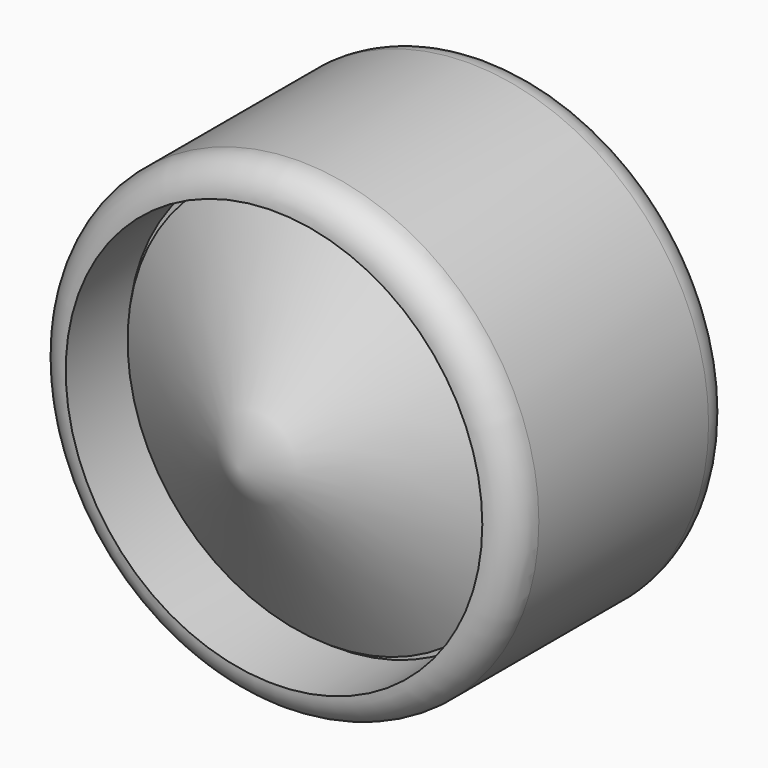
from build123d import *

# Parameters (mm, degrees)
F0_R      = 15.255971
F1_DEPTH  = 17.5
F2_R      = 2
F1_FACE_R = 13.255971
F3_DEPTH  = 5


with BuildPart() as f1:
    # F0 (on Front) → F1 (new body)
    with BuildSketch(Plane.XZ):
        Circle(F0_R)
    extrude(amount=F1_DEPTH)

    # F2
    f2_edges = [f1.edges().sort_by_distance(p)[0] for p in [
        (-15.255971, -17.5, 0),
        (-15.255971, 0, 0),
    ]]
    fillet(f2_edges, radius=F2_R)

    # F1_face (on face) → F3 (cut)
    with BuildSketch(Plane.XZ.offset(17.5)):
        Circle(F1_FACE_R)
    extrude(amount=-F3_DEPTH, mode=Mode.SUBTRACT)


with BuildPart() as f6:
    # F5 (on Right) → F6 (revolve)
    with BuildSketch(Plane.YZ):
        Polygon((-13.040973, -12.887048), (-13.040973, 0), (-20.327732, 0), align=None)
    revolve(axis=Axis((0, -16.684352, 0), (0, 1, 0)))


solid = Compound([f1.part, f6.part])
